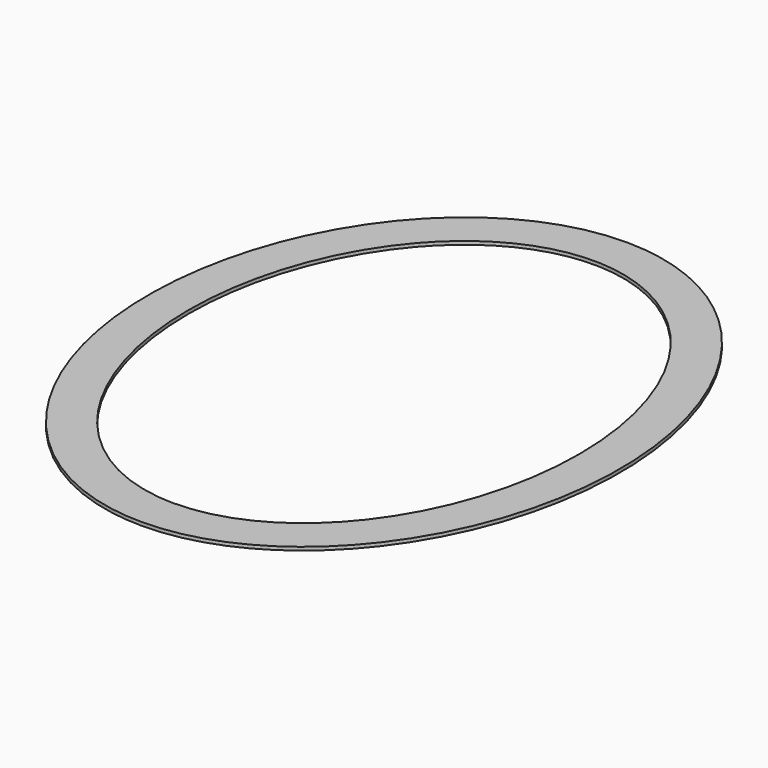
from build123d import *

# Parameters (mm, degrees)
F1_DEPTH = 0.5


with BuildPart() as f1:
    # F0 (on Top) → F1 (new body)
    with BuildSketch(Plane.XY):
        with BuildLine():
            add(Edge.make_bspline(
                [(0, -45), (60.621778, -45), (30.310889, 22.5), (0, 90), (-30.310889, 22.5), (-60.621778, -45), (0, -45)],
                knots=[0, 0, 0, 2.094395, 2.094395, 4.18879, 4.18879, 6.283185, 6.283185, 6.283185], degree=2, weights=[1, 0.5, 1, 0.5, 1, 0.5, 1]))
        make_face()
        with BuildLine():
            add(Edge.make_bspline(
                [(0, -39), (50.229473, -39), (25.114737, 19.5), (0, 78), (-25.114737, 19.5), (-50.229473, -39), (0, -39)],
                knots=[0, 0, 0, 2.094395, 2.094395, 4.18879, 4.18879, 6.283185, 6.283185, 6.283185], degree=2, weights=[1, 0.5, 1, 0.5, 1, 0.5, 1]))
        make_face(mode=Mode.SUBTRACT)
    extrude(amount=F1_DEPTH)


solid = f1.part
